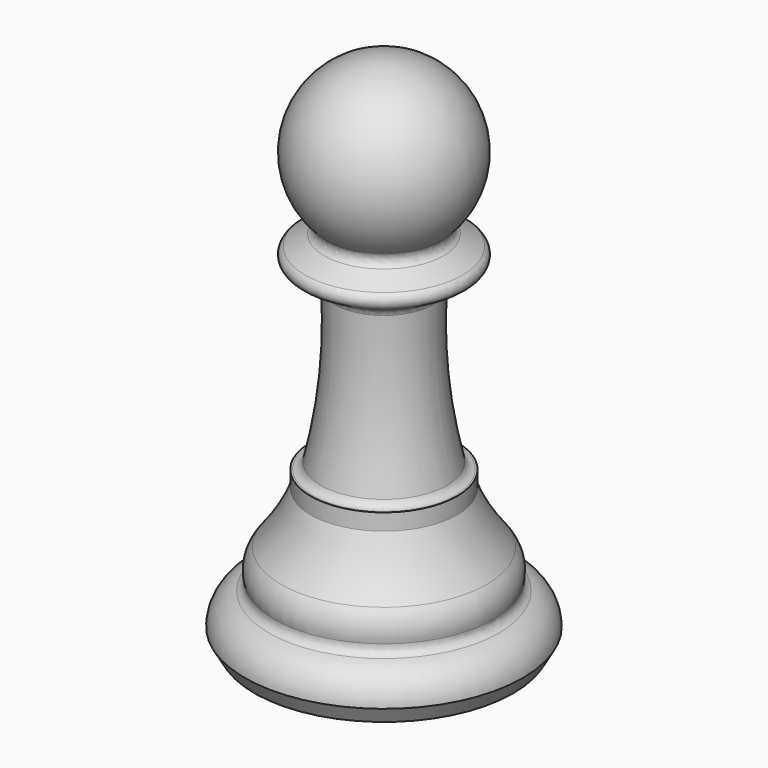
from build123d import *

# Parameters (mm, degrees)
F4_R = 0.8


with BuildPart() as f1:
    # F0 (on Front) → F1 (revolve)
    with BuildSketch(Plane.XZ):
        with BuildLine():
            Line((0, 50), (0, 0))
            Line((0, 0), (12.5, 0))
            Line((12.5, 0), (13.4237604307, 1.6))
            ThreePointArc((13.4237604307, 1.6), (12.4865021305, 3.8627416998), (10.2237604307, 4.8))
            ThreePointArc((10.2237604307, 4.8), (10.6423562149, 6.6543309617), (9.9352226521, 8.4189067948))
            ThreePointArc((9.9352226521, 8.4189067948), (8.3012473311, 10.7942507229), (7.0674706771, 13.4))
            Line((7.0674706771, 13.4), (7.0674706771, 15))
            Line((7.0674706771, 15), (6.2674706771, 15))
            ThreePointArc((6.2674706771, 15), (4.8883699527, 22.9313383604), (4.8, 30.9811978465))
            Line((4.8, 30.9811978465), (8.8, 33.2905989232))
            Line((8.8, 33.2905989232), (4.8, 35.6))
            ThreePointArc((4.8, 35.6), (7.5894663844, 44.5298221281), (0, 50))
        make_face()
    revolve(axis=Axis((0, 0, 47.5), (0, 0, 1)))

    # F2 (on Front) → F3 (revolve, cut)
    with BuildSketch(Plane.XZ):
        with BuildLine():
            ThreePointArc((0, 15), (1.4142135624, 15.5857864376), (2, 17))
            Line((2, 17), (2, 33))
            ThreePointArc((2, 33), (1.4142135624, 34.4142135624), (0, 35))
            Line((0, 35), (0, 15))
        make_face()
    revolve(axis=Axis((0, 0, 25), (0, 0, -1)), mode=Mode.SUBTRACT)

    # F4
    f4_edges = [f1.edges().sort_by_distance(p)[0] for p in [
        (-8.8, 0, 33.290599),
        (-4.8, 0, 30.981198),
        (-4.8, 0, 35.6),
        (-6.267471, 0, 15),
        (-10.22376, 0, 4.8),
    ]]
    fillet(f4_edges, radius=F4_R)


solid = f1.part
